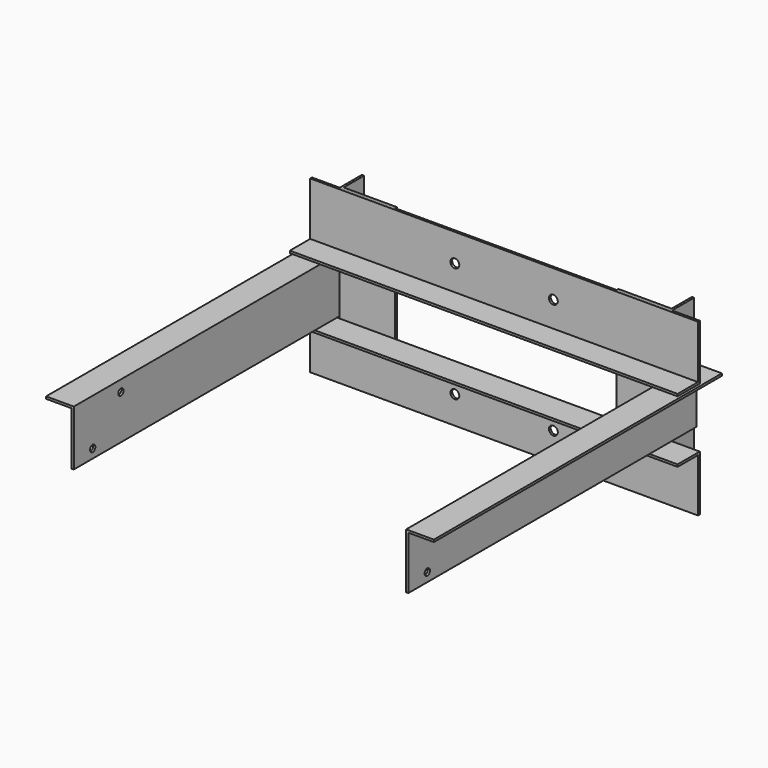
from build123d import *

# Parameters (mm, degrees)
F1_DEPTH      = 175
F3_DEPTH      = 300
F3_DEPTH_BACK = 25
F5_DEPTH      = 154
F6_R          = 4
F7_DEPTH      = 25
F9_DEPTH      = 400


with BuildPart() as f1:
    # F0 (on Right) → F1 (new body, symmetric)
    with BuildSketch(Plane.YZ):
        Polygon((0, -154), (0, -104), (-25, -104), (-25, -106), (-2, -106), (-2, -154), align=None)
    extrude(amount=F1_DEPTH, both=True)


with BuildPart() as f1b:
    # F0 (on Right) → F1, piece 2 (new body, symmetric)
    with BuildSketch(Plane.YZ):
        Polygon((0, -50), (0, 0), (-2, 0), (-2, -48), (-25, -48), (-25, -50), align=None)
    extrude(amount=F1_DEPTH, both=True)


with BuildPart() as f3:
    # F2 (on Front) → F3 (new body, two sides)
    with BuildSketch(Plane.XZ) as f3_sk:
        Polygon((175, -52), (150, -52), (150, -102), (152, -102), (152, -54), (175, -54), align=None)
    extrude(amount=F3_DEPTH)
    extrude(f3_sk.sketch, amount=-F3_DEPTH_BACK)


with BuildPart() as f3b:
    # F2 (on Front) → F3, piece 2 (new body, two sides)
    with BuildSketch(Plane.XZ) as f3_2_sk:
        Polygon((-150, -52), (-175, -52), (-175, -54), (-152, -54), (-152, -102), (-150, -102), align=None)
    extrude(amount=F3_DEPTH)
    extrude(f3_2_sk.sketch, amount=-F3_DEPTH_BACK)


with BuildPart() as f5:
    # F4 (on Top) → F5 (new body)
    with BuildSketch(Plane.XY):
        Polygon((100, 0), (150, 0), (150, 25), (148, 25), (148, 2), (100, 2), align=None)
    extrude(amount=-F5_DEPTH)


with BuildPart() as f5b:
    # F4 (on Top) → F5, piece 2 (new body)
    with BuildSketch(Plane.XY):
        Polygon((-148, 25), (-150, 25), (-150, 0), (-100, 0), (-100, 2), (-148, 2), align=None)
    extrude(amount=-F5_DEPTH)


with BuildPart() as f7_tool:
    # F6 (on face) → F7 (new body)
    with BuildSketch(Plane(origin=(0, 0, 0), x_dir=(-1, 0, 0), z_dir=(0, 1, 0))):
        with Locations((-44.45, -25)):
            Circle(F6_R)
        with Locations((44.45, -25)):
            Circle(F6_R)
        with Locations((-44.45, -129)):
            Circle(F6_R)
        with Locations((44.45, -129)):
            Circle(F6_R)
    extrude(amount=-F7_DEPTH)


with BuildPart() as f1_1:
    add(f1.part)

    # F7: cut by f7_tool
    add(f7_tool.part, mode=Mode.SUBTRACT)


with BuildPart() as f1b_1:
    add(f1b.part)

    # F7: cut by f7_tool
    add(f7_tool.part, mode=Mode.SUBTRACT)


with BuildPart() as f9_tool:
    # F8 (on face) → F9 (new body)
    with BuildSketch(Plane.YZ.offset(152)):
        with BuildLine():
            ThreePointArc((-276.4989507472, -91.7885822331), (-280.7415914343, -91.7885822331), (-280.7415914343, -96.0312229203))
            Line((-280.7415914343, -96.0312229203), (-276.4989507472, -91.7885822331))
        make_face()
        with BuildLine():
            ThreePointArc((-244.6791455938, -59.9687770797), (-248.9217862809, -59.9687770797), (-248.9217862809, -64.2114177669))
            Line((-248.9217862809, -64.2114177669), (-244.6791455938, -59.9687770797))
        make_face()
        with BuildLine():
            Line((-244.6791455938, -59.9687770797), (-248.9217862809, -64.2114177669))
            ThreePointArc((-248.9217862809, -64.2114177669), (-245.6524156403, -64.8617360208), (-243.8004659374, -62.0900974233))
            ThreePointArc((-243.8004659374, -62.0900974233), (-244.0288273398, -60.9420471262), (-244.6791455938, -59.9687770797))
        make_face()
        with BuildLine():
            Line((-276.4989507472, -91.7885822331), (-280.7415914343, -96.0312229203))
            ThreePointArc((-280.7415914343, -96.0312229203), (-277.4722207937, -96.6815411742), (-275.6202710908, -93.9099025767))
            ThreePointArc((-275.6202710908, -93.9099025767), (-275.8486324932, -92.7618522796), (-276.4989507472, -91.7885822331))
        make_face()
    extrude(amount=-F9_DEPTH)


with BuildPart() as f3_1:
    add(f3.part)

    # F9: cut by f9_tool
    add(f9_tool.part, mode=Mode.SUBTRACT)


with BuildPart() as f3b_1:
    add(f3b.part)

    # F9: cut by f9_tool
    add(f9_tool.part, mode=Mode.SUBTRACT)


solid = Compound([f5.part, f5b.part, f1_1.part, f1b_1.part, f3_1.part, f3b_1.part])
